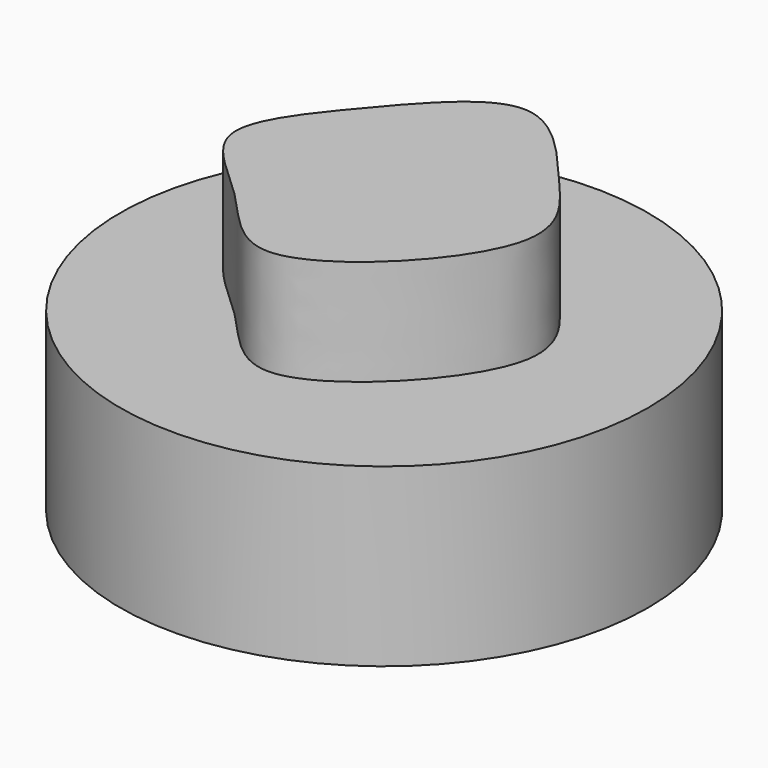
from build123d import *

# Parameters (mm, degrees)
F0_R     = 7.5
F1_DEPTH = 5
F3_DEPTH = 3
F4_R     = 1
F5_DEPTH = 2
F6_DEPTH = 2


with BuildPart() as f1:
    # F0 (on Top) → F1 (new body)
    with BuildSketch(Plane.XY):
        Circle(F0_R)
    extrude(amount=F1_DEPTH)

    # F2 (on face) → F3 (join)
    with BuildSketch(Plane.XY.offset(5)):
        with BuildLine():
            add(Edge.make_bspline(
                [(0, 4.9912175164), (-0.9549051723, 5.0130336664), (-2.8630161183, 2.7994808775), (-5.2187312486, -0.1081066721), (-2.2933239008, -2.0727410294), (-0.1707501501, -5.3286024085), (5.1814683056, 0.1133416257), (2.6939424426, 2.7725004839), (0.927597529, 4.9700252478), (0, 4.9912175164)],
                knots=[0, 0, 0, 0, 0.1450676006, 0.2811878838, 0.4116101556, 0.543592546, 0.7233555498, 0.859080931, 1, 1, 1, 1], degree=3))
        make_face()
    extrude(amount=F3_DEPTH)

    # F4 (on face) → F5 (cut)
    with BuildSketch(Plane(origin=(0, 0, 0), x_dir=(1, 0, 0), z_dir=(0, 0, -1))):
        Circle(F4_R)
    extrude(amount=-F5_DEPTH, mode=Mode.SUBTRACT)

    # F2 (on face) → F6 (join)
    with BuildSketch(Plane.XY.offset(5)):
        with BuildLine():
            add(Edge.make_bspline(
                [(0, 4.9912175164), (-0.9549051723, 5.0130336664), (-2.8630161183, 2.7994808775), (-5.2187312486, -0.1081066721), (-2.2933239008, -2.0727410294), (-0.1707501501, -5.3286024085), (5.1814683056, 0.1133416257), (2.6939424426, 2.7725004839), (0.927597529, 4.9700252478), (0, 4.9912175164)],
                knots=[0, 0, 0, 0, 0.1450676006, 0.2811878838, 0.4116101556, 0.543592546, 0.7233555498, 0.859080931, 1, 1, 1, 1], degree=3))
        make_face()
    extrude(amount=F6_DEPTH)


solid = f1.part
